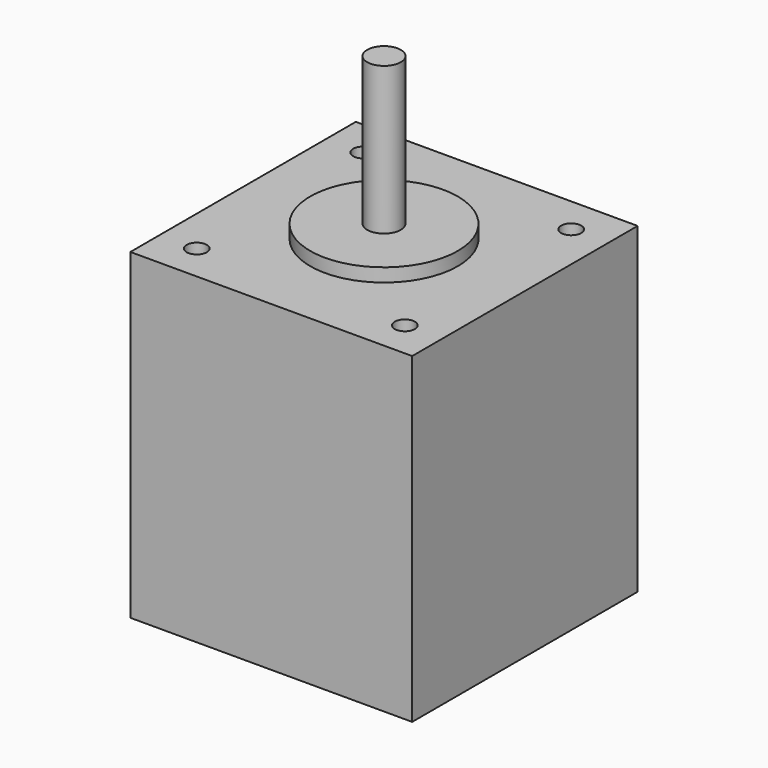
from build123d import *

# Parameters (mm, degrees)
F0_W     = 42
F0_H     = 42
F0_R     = 1.5
F0_R_2   = 11
F1_DEPTH = 48
F2_DEPTH = 2
F3_R     = 2.5
F4_DEPTH = 22


with BuildPart() as f1:
    # F0 (on Top) → F1 (new body)
    with BuildSketch(Plane.XY):
        Rectangle(F0_W, F0_H)
        with Locations((-15.5, -15.5)):
            Circle(F0_R, mode=Mode.SUBTRACT)
        with Locations((15.5, -15.5)):
            Circle(F0_R, mode=Mode.SUBTRACT)
        with Locations((-15.5, 15.5)):
            Circle(F0_R, mode=Mode.SUBTRACT)
        Circle(F0_R_2, mode=Mode.SUBTRACT)
        with Locations((15.5, 15.5)):
            Circle(F0_R, mode=Mode.SUBTRACT)
        Circle(F0_R_2)
    extrude(amount=-F1_DEPTH)

    # F0 (on Top) → F2 (join)
    with BuildSketch(Plane.XY):
        Circle(F0_R_2)
    extrude(amount=F2_DEPTH)

    # F3 (on face) → F4 (join)
    with BuildSketch(Plane.XY.offset(2)):
        Circle(F3_R)
    extrude(amount=F4_DEPTH)


solid = f1.part
